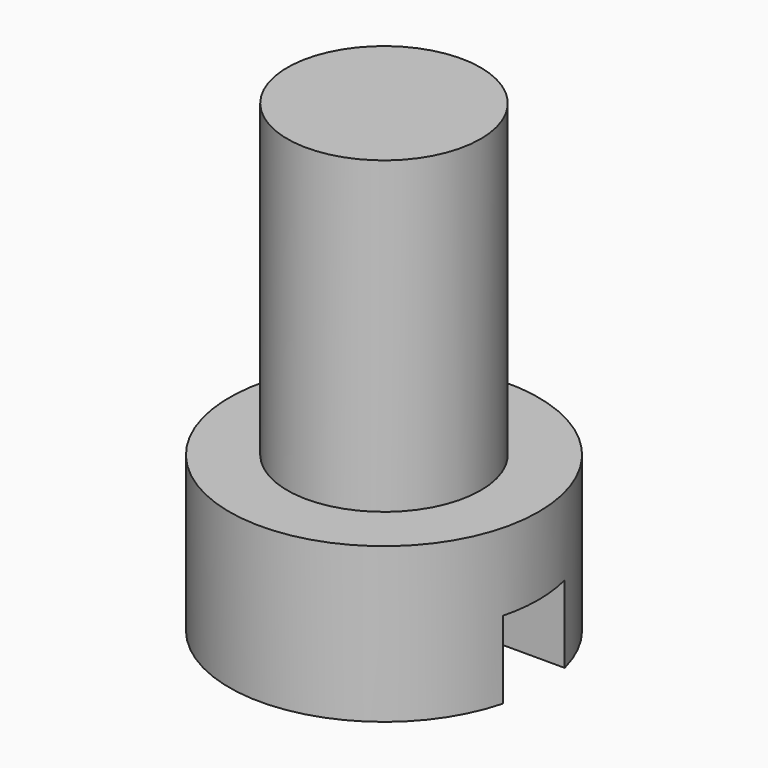
from build123d import *

# Parameters (mm, degrees)
F3_DEPTH = 1


with BuildPart() as f1:
    # F0 (on Front) → F1 (revolve)
    with BuildSketch(Plane.XZ):
        Polygon((0, 6), (0, 0), (2, 0), (2, 2), (1.25, 2), (1.25, 6), align=None)
    revolve(axis=Axis((0, 0, 3), (0, 0, 1)))

    # F2 (on face) → F3 (cut)
    with BuildSketch(Plane(origin=(0, 0, 0), x_dir=(1, 0, 0), z_dir=(0, 0, -1))):
        with BuildLine():
            Line((1.936492, 0.5), (-1.936492, 0.5))
            ThreePointArc((-1.936492, 0.5), (-2, 0), (-1.936492, -0.5))
            Line((-1.936492, -0.5), (1.936492, -0.5))
            ThreePointArc((1.936492, -0.5), (2, 0), (1.936492, 0.5))
        make_face()
    extrude(amount=-F3_DEPTH, mode=Mode.SUBTRACT)


solid = f1.part
